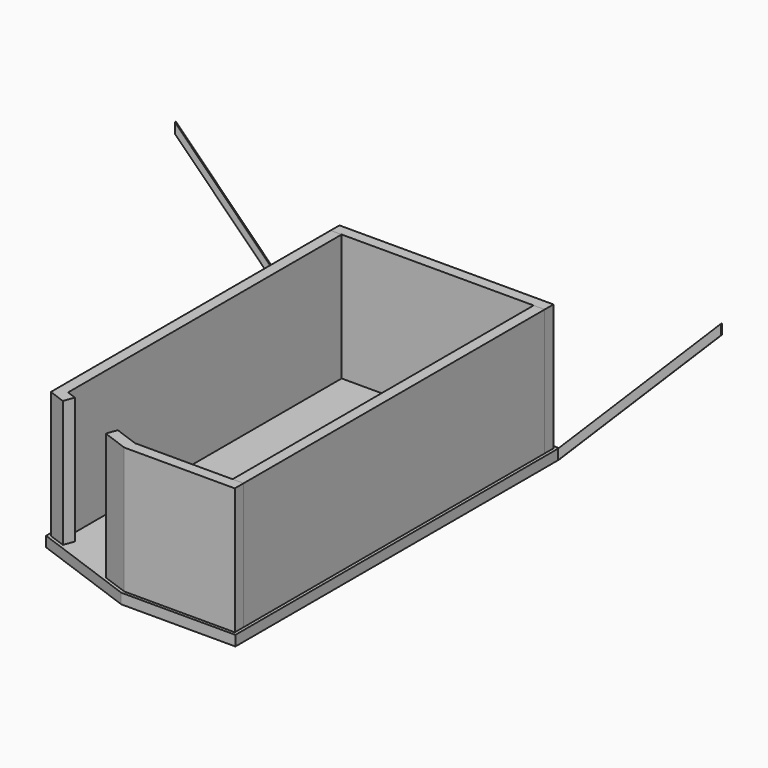
from build123d import *

# Parameters (mm, degrees)
F1_DEPTH  = 200
F2_W      = 215
F2_H      = 7350
F3_DEPTH  = 2475
F5_DEPTH  = 2475
F6_W      = 4180
F6_H      = 215
F7_DEPTH  = 2475
F9_DEPTH  = 25
F10_DEPTH = 25
F12_DEPTH = 2475


with BuildPart() as f1:
    # F0 (on Top) → F1 (new body)
    with BuildSketch(Plane.XY):
        Polygon((-384.0109936075, 1095.9495513227), (1686.1318499839, 342.4791755763), (3915.9890063925, 342.4791755763), (3915.9890063925, 8242.4791755763), (-384.0109936075, 8242.4791755763), align=None)
    extrude(amount=F1_DEPTH)


with BuildPart() as f3:
    # F2 (on face) → F3 (new body)
    with BuildSketch(Plane.XY.offset(200)):
        with Locations((3748.4890063925, 4292.4791755763)):
            Rectangle(F2_W, F2_H)
    extrude(amount=F3_DEPTH)


with BuildPart() as f5:
    # F4 (on face) → F5 (new body)
    with BuildSketch(Plane.XY.offset(200)):
        Polygon((-109.0109936075, 7967.4791755763), (-324.0109936075, 7967.4791755763), (-324.0109936075, 1137.9620036153), (5.3931997347, 1018.0686821963), (78.9275305497, 1220.1025956653), (-109.0109936075, 1288.5066243304), align=None)
    extrude(amount=F5_DEPTH)


with BuildPart() as f7:
    # F6 (on face) → F7 (new body)
    with BuildSketch(Plane.XY.offset(200)):
        with Locations((1765.9890063925, 8074.9791755763)):
            Rectangle(F6_W, F6_H)
    extrude(amount=F7_DEPTH)


with BuildPart() as f9:
    # F8 (on face) → F9 (new body)
    with BuildSketch(Plane(origin=(0, 8242.4791755763, 0), x_dir=(-1, 0, 0), z_dir=(0, 1, 0))):
        Polygon((-7097.969521732, 3181.9805153395), (-3915.9890063925, 0), (-3915.9890063925, 200), (-7097.969521732, 3381.9805153395), align=None)
    extrude(amount=-F9_DEPTH)


with BuildPart() as f10:
    # F8 (on face) → F10 (new body)
    with BuildSketch(Plane(origin=(0, 8242.4791755763, 0), x_dir=(-1, 0, 0), z_dir=(0, 1, 0))):
        Polygon((384.0109936075, 200), (384.0109936075, 0), (3565.991508947, 3181.9805153395), (3565.991508947, 3381.9805153395), align=None)
    extrude(amount=-F10_DEPTH)


with BuildPart() as f12:
    # F11 (on face) → F12 (new body)
    with BuildSketch(Plane.XY.offset(200)):
        Polygon((3855.9890063925, 402.4791755763), (3855.9890063925, 617.4791755763), (1734.6217696787, 617.4791755763), (1262.9402327399, 789.1572150749), (1189.4059019249, 587.123301606), (1696.7114688264, 402.4791755763), align=None)
    extrude(amount=F12_DEPTH)


solid = Compound([f1.part, f3.part, f5.part, f7.part, f9.part, f10.part, f12.part])
